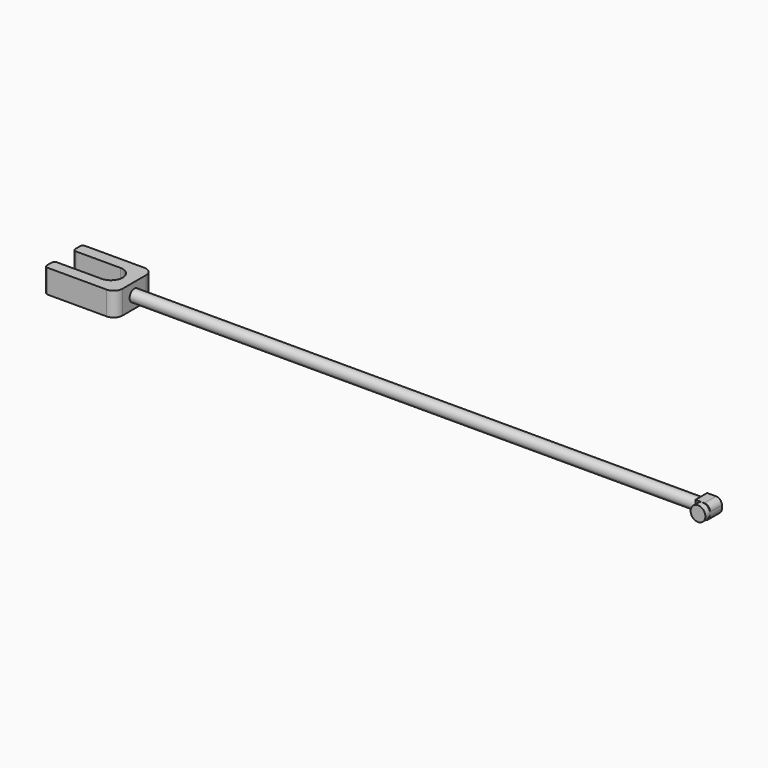
from build123d import *

# Parameters (mm, degrees)
F0_R     = 6.35
F1_DEPTH = 609.6
F2_W     = 15.875
F2_H     = 15.875
F3_DEPTH = 15.875
F4_R     = 7.9375
F5_DEPTH = 6.35
F6_R     = 6.35
F8_DEPTH = 12.7
F9_R     = 9.525
F10_R    = 3.175


with BuildPart() as f1:
    # F0 (on Right) → F1 (new body)
    with BuildSketch(Plane.YZ):
        Circle(F0_R)
    extrude(amount=-F1_DEPTH)

    # F2 (on Right) → F3 (join)
    with BuildSketch(Plane.YZ):
        Rectangle(F2_W, F2_H)
    extrude(amount=F3_DEPTH)

    # F4 (on face) → F5 (join)
    with BuildSketch(Plane.XZ.offset(7.9375)):
        with Locations((7.9375, 0)):
            Circle(F4_R)
    extrude(amount=F5_DEPTH)

    # F6
    f6_edges = [f1.edges().sort_by_distance(p)[0] for p in [
        (15.875, 0, 7.9375),
        (15.875, 0, -7.9375),
    ]]
    fillet(f6_edges, radius=F6_R)

    # F7 (on Top) → F8 (join, symmetric)
    with BuildSketch(Plane.XY):
        with BuildLine():
            Line((-609.6, -25.4), (-609.6, 25.4))
            Line((-609.6, 25.4), (-685.8, 25.4))
            Line((-685.8, 25.4), (-685.8, 12.7))
            Line((-685.8, 12.7), (-634.7345113754, 12.7))
            ThreePointArc((-634.7345113754, 12.7), (-622.0345113754, 0), (-634.7345113754, -12.7))
            Line((-634.7345113754, -12.7), (-685.8, -12.7))
            Line((-685.8, -12.7), (-685.8, -25.4))
            Line((-685.8, -25.4), (-609.6, -25.4))
        make_face()
    extrude(amount=F8_DEPTH, both=True)

    # F9
    f9_edges = [f1.edges().sort_by_distance(p)[0] for p in [
        (-609.6, 25.4, 0),
        (-609.6, -25.4, 0),
    ]]
    fillet(f9_edges, radius=F9_R)

    # F10
    f10_edges = [f1.edges().sort_by_distance(p)[0] for p in [
        (-685.8, 25.4, 0),
        (-685.8, -25.4, 0),
        (-685.8, 12.7, 0),
        (-685.8, -12.7, 0),
    ]]
    fillet(f10_edges, radius=F10_R)


solid = f1.part
